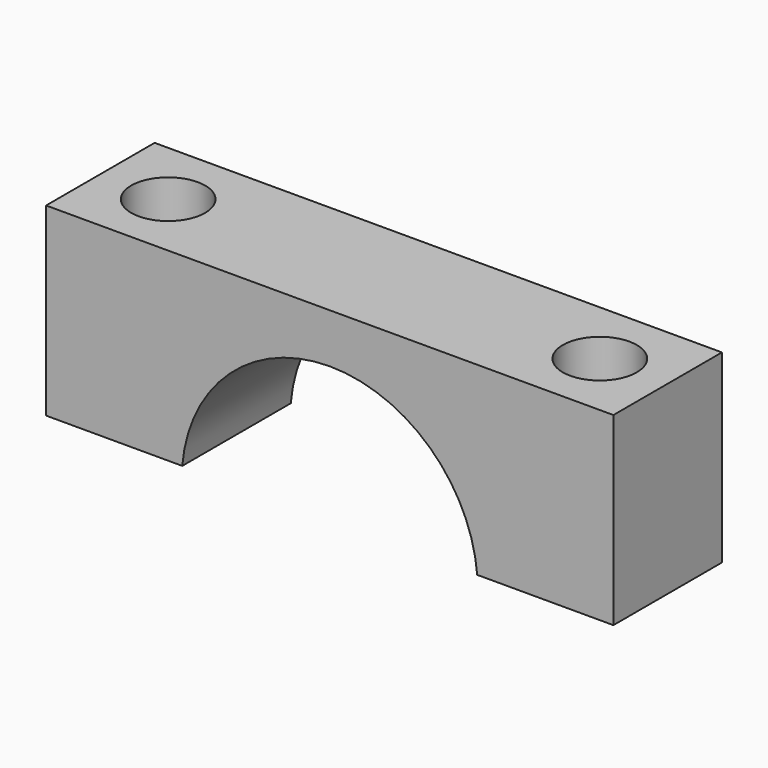
from build123d import *

# Parameters (mm, degrees)
F2_DEPTH = 2.75
F4_D     = 3


with BuildPart() as f2:
    # F1 (on Front) → F2 (new body, symmetric)
    with BuildSketch(Plane.XZ):
        with BuildLine():
            ThreePointArc((-5.9791303716, 0.5), (0, 6), (5.9791303716, 0.5))
            Line((5.9791303716, 0.5), (11.5, 0.5))
            Line((11.5, 0.5), (11.5, 8))
            Line((11.5, 8), (-11.5, 8))
            Line((-11.5, 8), (-11.5, 0.5))
            Line((-11.5, 0.5), (-5.9791303716, 0.5))
        make_face()
    extrude(amount=F2_DEPTH, both=True)

    # F4 (through all)
    with Locations(Plane.XY.offset(8)):
        with Locations((-8.75, 0), (8.75, 0)):
            Hole(F4_D / 2)


solid = f2.part
